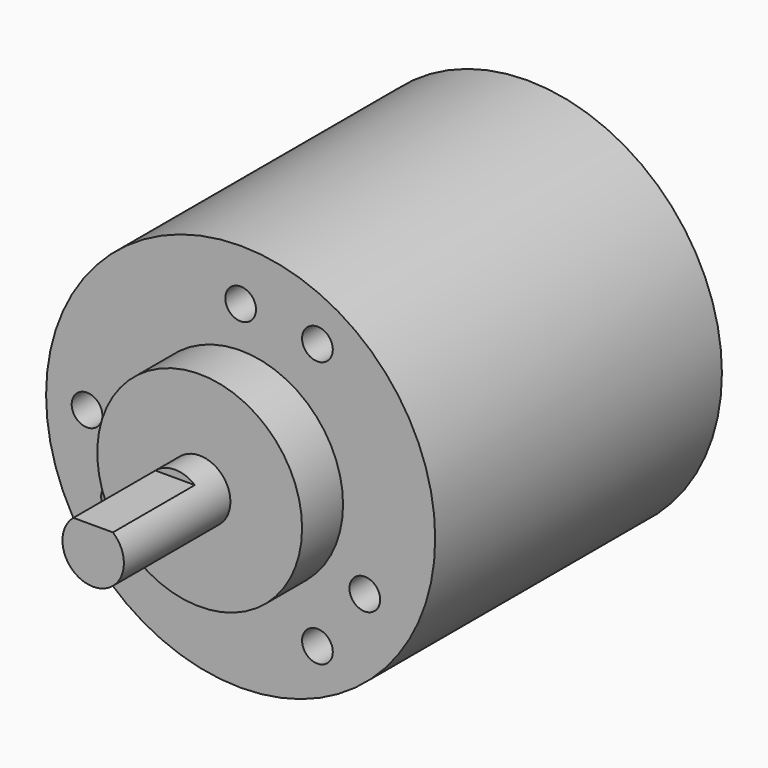
from build123d import *

# Parameters (mm, degrees)
SKETCH_R           = 19
PAD_DEPTH          = 34
SKETCH001_R        = 19
PAD001_DEPTH       = 1
SKETCH002_R        = 10
PAD002_DEPTH       = 5
SKETCH003_R        = 3
PAD003_DEPTH       = 13
SKETCH004_W        = 5
SKETCH004_H        = 3
POCKET_DEPTH       = 10
SKETCH005_R        = 1.5
POCKET001_DEPTH    = 8
POLARPATTERN_COUNT = 3


with BuildPart() as part:
    # Sketch → Pad (new body)
    with BuildSketch(Plane.XZ):
        Circle(SKETCH_R)
    extrude(amount=PAD_DEPTH)

    # Sketch001 (on Face3 of Pad) → Pad001 (join)
    with BuildSketch(Plane.XZ.offset(34)):
        Circle(SKETCH001_R)
    extrude(amount=PAD001_DEPTH)

    # Sketch002 (on Face4 of Pad001) → Pad002 (join)
    with BuildSketch(Plane.XZ.offset(35)):
        Circle(SKETCH002_R)
    extrude(amount=PAD002_DEPTH)

    # Sketch003 (on Face6 of Pad002) → Pad003 (join)
    with BuildSketch(Plane.XZ.offset(40)):
        Circle(SKETCH003_R)
    extrude(amount=PAD003_DEPTH)

    # Sketch004 (on Face8 of Pad003) → Pocket (cut)
    with BuildSketch(Plane.XZ.offset(53)):
        with Locations((0, 3.8)):
            Rectangle(SKETCH004_W, SKETCH004_H)
    extrude(amount=-POCKET_DEPTH, mode=Mode.SUBTRACT)

    # Sketch005 (on Face4 of Pad001) → Pocket001 (cut)
    with BuildSketch(Plane.XZ.offset(35)):
        with Locations((0, 14)):
            Circle(SKETCH005_R)
        with Locations((7.5, 12.990381)):
            Circle(SKETCH005_R)
    pocket001 = extrude(amount=-POCKET001_DEPTH, mode=Mode.SUBTRACT)

    # PolarPattern: Pocket001 ×3 about axis
    polarpattern_axis = Axis((0, -35, 0), (0, -1, 0))
    for i in range(1, POLARPATTERN_COUNT):
        add(pocket001.rotate(polarpattern_axis, i * 360 / POLARPATTERN_COUNT), mode=Mode.SUBTRACT)


solid = part.part
